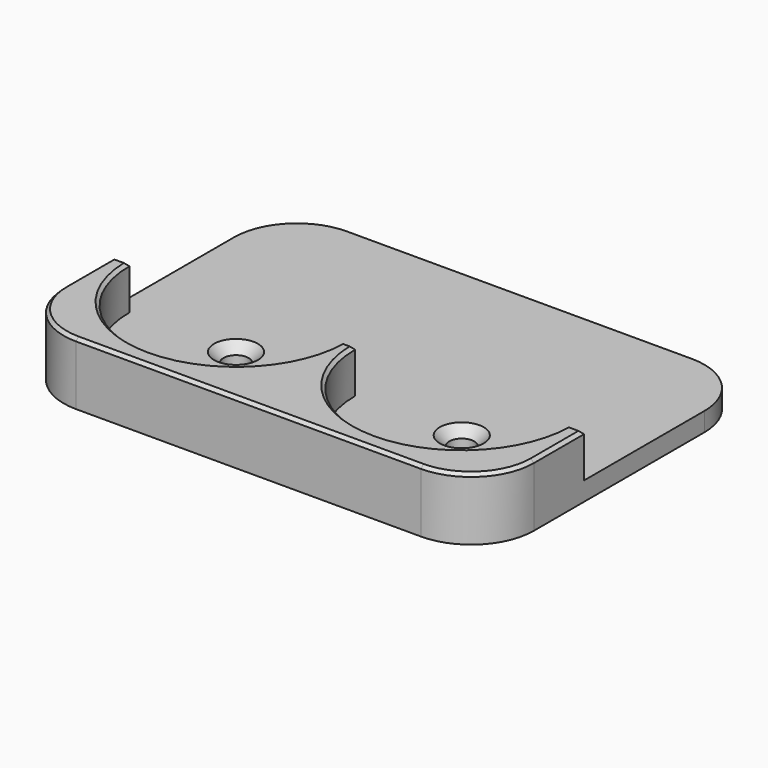
from build123d import *

# Parameters (mm, degrees)
SKETCH_W        = 75
SKETCH_H        = 54
PAD_DEPTH       = 10
SKETCH001_R     = 17
POCKET_DEPTH    = 7
SKETCH002_W     = 111.709
SKETCH002_H     = 38.0948
POCKET001_DEPTH = 7
SKETCH003_R     = 2
POCKET002_DEPTH = 10.001
FILLET_R        = 10
CHAMFER_SIZE    = 0.5
CHAMFER001_SIZE = 1.5


with BuildPart() as part:
    # Sketch → Pad (new body)
    with BuildSketch(Plane.XY):
        with Locations((0, 7)):
            Rectangle(SKETCH_W, SKETCH_H)
    extrude(amount=PAD_DEPTH)

    # Sketch001 → Pocket (cut)
    with BuildSketch(Plane.XY.offset(10)):
        with Locations((-18, 0)):
            Circle(SKETCH001_R)
        with Locations((18, 0)):
            Circle(SKETCH001_R)
    extrude(amount=-POCKET_DEPTH, mode=Mode.SUBTRACT)

    # Sketch002 → Pocket001 (cut)
    with BuildSketch(Plane.XY.offset(10)):
        with Locations((0, 19.0474)):
            Rectangle(SKETCH002_W, SKETCH002_H)
    extrude(amount=-POCKET001_DEPTH, mode=Mode.SUBTRACT)

    # Sketch003 → Pocket002 (cut, through all)
    with BuildSketch(Plane.XY.offset(10)):
        with Locations((-18, 0)):
            Circle(SKETCH003_R)
        with Locations((18, 0)):
            Circle(SKETCH003_R)
    extrude(amount=-POCKET002_DEPTH, mode=Mode.SUBTRACT)

    # Fillet
    fillet_edges = [part.edges().sort_by_distance(p)[0] for p in [
        (37.5, 34, 1.5),
        (-37.5, 34, 1.5),
        (-37.5, -20, 5),
        (37.5, -20, 5),
    ]]
    fillet(fillet_edges, radius=FILLET_R)

    # Chamfer
    chamfer_edges = [part.edges().sort_by_distance(p)[0] for p in [
        (-37.5, -5, 10),
        (-34.571068, -17.071068, 10),
        (-36.25, 0, 10),
        (0, -20, 10),
        (-18, -17, 10),
        (34.571068, -17.071068, 10),
        (0, 0, 10),
        (37.5, -5, 10),
        (18, -17, 10),
        (36.25, 0, 10),
    ]]
    chamfer(chamfer_edges, length=CHAMFER_SIZE)

    # Chamfer001
    chamfer001_edges = [part.edges().sort_by_distance(p)[0] for p in [
        (18, -2, 3),
        (-18, -2, 3),
    ]]
    chamfer(chamfer001_edges, length=CHAMFER001_SIZE)


solid = part.part
